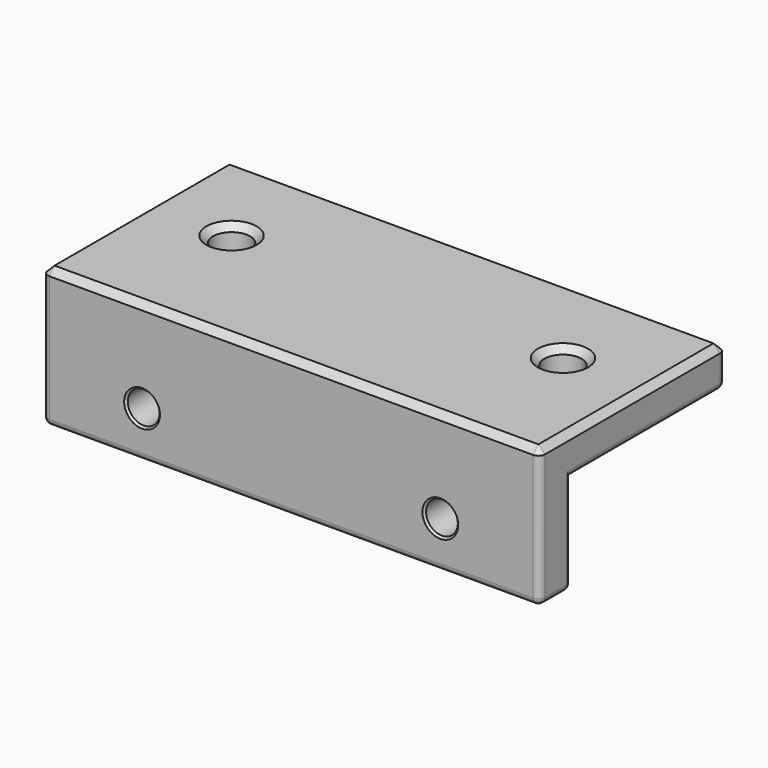
from build123d import *

# Parameters (mm, degrees)
SKETCH_W        = 75
SKETCH_H        = 35
PAD_DEPTH       = 6
SKETCH001_W     = 75
SKETCH001_H     = 6
PAD001_DEPTH    = 15
SKETCH002_R     = 2.8
POCKET_DEPTH    = 21.001
SKETCH003_R     = 2.4
POCKET001_DEPTH = 35.001
FILLET_R        = 1
CHAMFER_SIZE    = 0.3
CHAMFER001_SIZE = 1
FILLET001_R     = 1
FILLET002_R     = 1


with BuildPart() as part:
    # Sketch → Pad (new body)
    with BuildSketch(Plane.XY):
        with Locations((0, -17.5)):
            Rectangle(SKETCH_W, SKETCH_H)
    extrude(amount=PAD_DEPTH)

    # Sketch001 (on Face5 of Pad) → Pad001 (join)
    with BuildSketch(Plane(origin=(0, 0, 0), x_dir=(1, 0, 0), z_dir=(0, 0, -1))):
        with Locations((0, 32)):
            Rectangle(SKETCH001_W, SKETCH001_H)
    extrude(amount=PAD001_DEPTH)

    # Sketch002 (on Face6 of Pad001) → Pocket (cut, through all)
    with BuildSketch(Plane.XY.offset(6)):
        with Locations((-25, -15)):
            Circle(SKETCH002_R)
        with Locations((25, -15)):
            Circle(SKETCH002_R)
    extrude(amount=-POCKET_DEPTH, mode=Mode.SUBTRACT)

    # Sketch003 (on Face8 of Pocket) → Pocket001 (cut, through all)
    with BuildSketch(Plane.XZ.offset(35)):
        with Locations((-22.5, -8)):
            Circle(SKETCH003_R)
        with Locations((22.5, -8)):
            Circle(SKETCH003_R)
    extrude(amount=-POCKET001_DEPTH, mode=Mode.SUBTRACT)

    # Fillet
    fillet_edges = [part.edges().sort_by_distance(p)[0] for p in [
        (-37.5, 0, 3),
        (-37.5, -35, -7.5),
        (37.5, -35, -7.5),
        (37.5, 0, 3),
        (37.5, -29, -7.5),
        (-37.5, -29, -7.5),
    ]]
    fillet(fillet_edges, radius=FILLET_R)

    # Chamfer
    chamfer_edges = [part.edges().sort_by_distance(p)[0] for p in [
        (-24.9, -29, -8),
        (20.1, -29, -8),
        (20.1, -35, -8),
        (-24.9, -35, -8),
    ]]
    chamfer(chamfer_edges, length=CHAMFER_SIZE)

    # Chamfer001
    chamfer001_edges = [part.edges().sort_by_distance(p)[0] for p in [
        (-37.5, -17.5, 6),
        (-37.207107, -34.707107, 6),
        (0, -35, 6),
        (37.207107, -34.707107, 6),
        (37.5, -17.5, 6),
        (37.207107, -0.292893, 6),
        (0, 0, 6),
        (-37.207107, -0.292893, 6),
        (-27.8, -15, 6),
        (22.2, -15, 6),
    ]]
    chamfer(chamfer001_edges, length=CHAMFER001_SIZE)

    # Fillet001
    fillet001_edges = [part.edges().sort_by_distance(p)[0] for p in [
        (0, 0, 0),
    ]]
    fillet(fillet001_edges, radius=FILLET001_R)

    # Fillet002
    fillet002_edges = [part.edges().sort_by_distance(p)[0] for p in [
        (-37.5, -32, -15),
        (-37.207107, -29.292893, -15),
        (0, -29, -15),
        (37.207107, -29.292893, -15),
        (37.5, -32, -15),
        (37.207107, -34.707107, -15),
        (0, -35, -15),
        (-37.207107, -34.707107, -15),
    ]]
    fillet(fillet002_edges, radius=FILLET002_R)


solid = part.part
